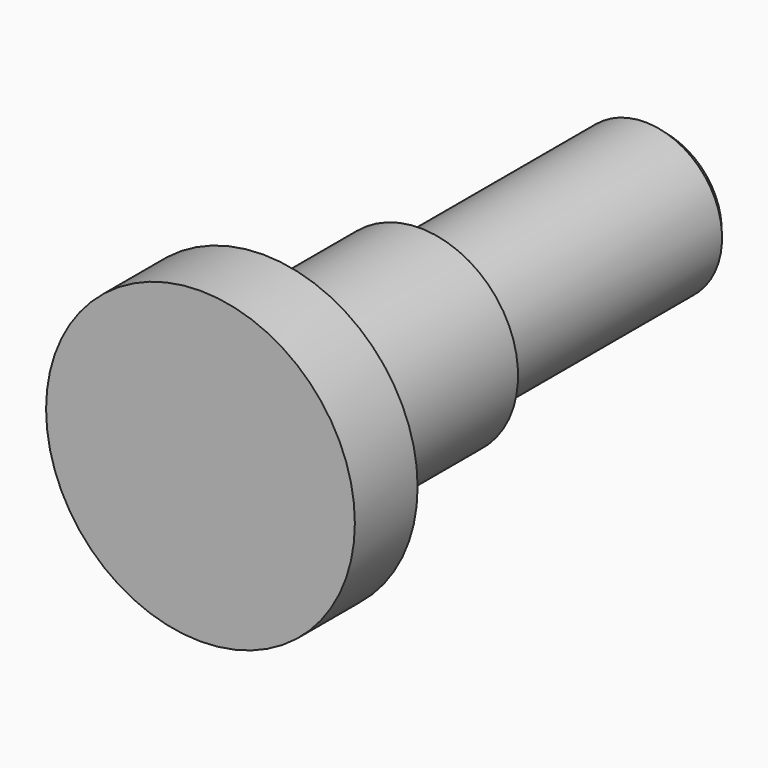
from build123d import *

# Parameters (mm, degrees)
F0_R     = 4.0005
F0_R_2   = 2.9972
F1_DEPTH = 2.032
F2_R     = 2.54
F3_DEPTH = 5.08
F4_R     = 1.9939
F5_DEPTH = 7.2898
F6_R     = 1.781887
F7_DEPTH = 0.254


with BuildPart() as f1:
    # F0 (on Front) → F1 (new body)
    with BuildSketch(Plane.XZ):
        Circle(F0_R)
        Circle(F0_R_2, mode=Mode.SUBTRACT)
        Circle(F0_R_2)
    extrude(amount=F1_DEPTH)

    # F2 (on face) → F3 (join)
    with BuildSketch(Plane(origin=(0, 0, 0), x_dir=(-1, 0, 0), z_dir=(0, 1, 0))):
        Circle(F2_R)
    extrude(amount=F3_DEPTH)

    # F4 (on face) → F5 (join)
    with BuildSketch(Plane(origin=(0, 5.08, 0), x_dir=(-1, 0, 0), z_dir=(0, 1, 0))):
        Circle(F4_R)
    extrude(amount=F5_DEPTH)

    # F6 (on face) → F7 (join)
    with BuildSketch(Plane(origin=(0, 12.3698, 0), x_dir=(-1, 0, 0), z_dir=(0, 1, 0))):
        Circle(F6_R)
    extrude(amount=F7_DEPTH)


solid = f1.part
